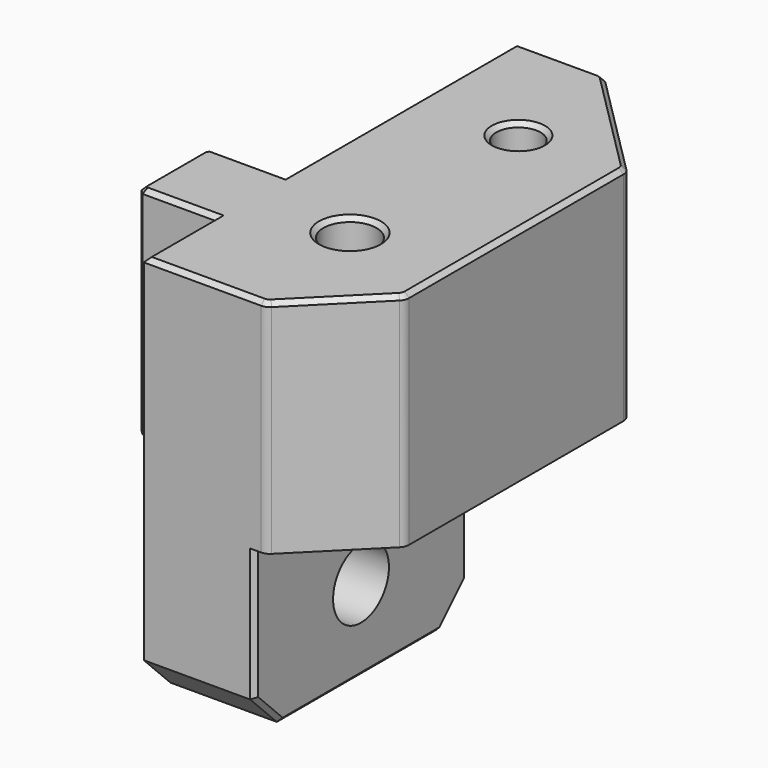
from build123d import *

# Parameters (mm, degrees)
BOX016_W          = 10
BOX016_H          = 10
BOX016_DEPTH      = 17
CYLINDER004_R     = 2.4
CYLINDER004_DEPTH = 35
CYLINDER003_R     = 2
CYLINDER003_DEPTH = 30
CYLINDER008_R     = 3.15
CYLINDER008_DEPTH = 14
BOX007_W          = 7
BOX007_H          = 7.8
BOX007_DEPTH      = 20
CHAMFER005_SIZE   = 0.4
BOX006_W          = 10
BOX006_H          = 24
BOX006_DEPTH      = 15
CHAMFER004_SIZE   = 3
CHAMFER011_SIZE   = 0.4
BOX_W             = 1
BOX_H             = 7.8
BOX_DEPTH         = 15
BOX008_W          = 18
BOX008_H          = 42
BOX008_DEPTH      = 20
CHAMFER_SIZE      = 7
CHAMFER010_SIZE   = 10
FILLET002_R       = 1
CHAMFER013_SIZE   = 0.4


with BuildPart() as cube016:
    # Box016 → Box016 (new body)
    with BuildSketch(Plane(origin=(-10, 10, -16.5), x_dir=(1, 0, 0), z_dir=(0, 0, 1))):
        with Locations((5, 5)):
            Rectangle(BOX016_W, BOX016_H)
    extrude(amount=BOX016_DEPTH)


with BuildPart() as cylinder004:
    # Cylinder004 → Cylinder004 (new body)
    with BuildSketch(Plane(origin=(9, 15, 5), x_dir=(1, 0, 0), z_dir=(0, 0, 1))):
        Circle(CYLINDER004_R)
    extrude(amount=CYLINDER004_DEPTH)


with BuildPart() as cylinder003:
    # Cylinder003 → Cylinder003 (new body)
    with BuildSketch(Plane(origin=(9, 34, 10), x_dir=(1, 0, 0), z_dir=(0, 0, 1))):
        Circle(CYLINDER003_R)
    extrude(amount=CYLINDER003_DEPTH)


with BuildPart() as cylinder008:
    # Cylinder008 → Cylinder008 (new body)
    with BuildSketch(Plane(origin=(-2, 15, -7.5), x_dir=(0, 0, -1), z_dir=(1, 0, 0))):
        Circle(CYLINDER008_R)
    extrude(amount=CYLINDER008_DEPTH)


with BuildPart() as chamfer005:
    # Box007 → Box007 (new body)
    with BuildSketch(Plane(origin=(-7, 11.1, 0), x_dir=(1, 0, 0), z_dir=(0, 0, 1))):
        with Locations((3.5, 3.9)):
            Rectangle(BOX007_W, BOX007_H)
    extrude(amount=BOX007_DEPTH)

    # Chamfer005
    chamfer005_edges = [chamfer005.edges().sort_by_distance(p)[0] for p in [
        (-7, 11.1, 10),
        (-7, 18.9, 10),
    ]]
    chamfer(chamfer005_edges, length=CHAMFER005_SIZE)


with BuildPart() as chamfer011:
    # Box006 → Box006 (new body)
    with BuildSketch(Plane(origin=(0, 3, -15), x_dir=(1, 0, 0), z_dir=(0, 0, 1))):
        with Locations((5, 12)):
            Rectangle(BOX006_W, BOX006_H)
    extrude(amount=BOX006_DEPTH)

    # Chamfer004
    chamfer004_edges = [chamfer011.edges().sort_by_distance(p)[0] for p in [
        (5, 3, -15),
        (5, 27, -15),
    ]]
    chamfer(chamfer004_edges, length=CHAMFER004_SIZE)

    # Chamfer011
    chamfer011_edges = [chamfer011.edges().sort_by_distance(p)[0] for p in [
        (10, 3, -6),
        (10, 4.5, -13.5),
        (10, 15, -15),
        (10, 27, -6),
        (10, 25.5, -13.5),
    ]]
    chamfer(chamfer011_edges, length=CHAMFER011_SIZE)


with BuildPart() as cube:
    # Box → Box (new body)
    with BuildSketch(Plane(origin=(-1, 11.1, -15), x_dir=(1, 0, 0), z_dir=(0, 0, 1))):
        with Locations((0.5, 3.9)):
            Rectangle(BOX_W, BOX_H)
    extrude(amount=BOX_DEPTH)


with BuildPart() as cut002002002007004004001005:
    # Box008 → Box008 (new body)
    with BuildSketch(Plane(origin=(0, 3, 0), x_dir=(1, 0, 0), z_dir=(0, 0, 1))):
        with Locations((9, 21)):
            Rectangle(BOX008_W, BOX008_H)
    extrude(amount=BOX008_DEPTH)

    # Chamfer
    chamfer_edges = [cut002002002007004004001005.edges().sort_by_distance(p)[0] for p in [
        (18, 3, 10),
    ]]
    chamfer(chamfer_edges, length=CHAMFER_SIZE)

    # Chamfer010
    chamfer010_edges = [cut002002002007004004001005.edges().sort_by_distance(p)[0] for p in [
        (18, 45, 10),
    ]]
    chamfer(chamfer010_edges, length=CHAMFER010_SIZE)

    # Fillet002
    fillet002_edges = [cut002002002007004004001005.edges().sort_by_distance(p)[0] for p in [
        (18, 35, 10),
        (18, 10, 10),
        (8, 45, 10),
        (11, 3, 10),
    ]]
    fillet(fillet002_edges, radius=FILLET002_R)

    # Fusion: union Chamfer005, Chamfer011, Cube
    add(chamfer005.part)
    add(chamfer011.part)
    add(cube.part)

    # Cut: cut Cylinder008
    add(cylinder008.part, mode=Mode.SUBTRACT)

    # Cut002002002008: cut Cylinder003
    add(cylinder003.part, mode=Mode.SUBTRACT)

    # Cut002002002009: cut Cylinder004
    add(cylinder004.part, mode=Mode.SUBTRACT)

    # Chamfer013
    chamfer013_edges = [cut002002002007004004001005.edges().sort_by_distance(p)[0] for p in [
        (-7, 15, 20),
        (-6.8, 18.7, 20),
        (-6.8, 11.3, 20),
        (3.792893, 45, 20),
        (17.92388, 10.03153, 20),
        (14.5, 6.5, 20),
        (10.96847, 3.07612, 20),
        (7.96847, 44.92388, 20),
        (13, 40, 20),
        (17.92388, 34.96847, 20),
        (18, 22.5, 20),
        (-3.3, 11.1, 20),
        (-3.3, 18.9, 20),
        (0, 7.05, 20),
        (0, 31.95, 20),
        (5.292893, 3, 20),
        (6.6, 15, 20),
        (7, 34, 20),
    ]]
    chamfer(chamfer013_edges, length=CHAMFER013_SIZE)

    # Cut002002002007004004001005: cut Cube016
    add(cube016.part, mode=Mode.SUBTRACT)


solid = cut002002002007004004001005.part
